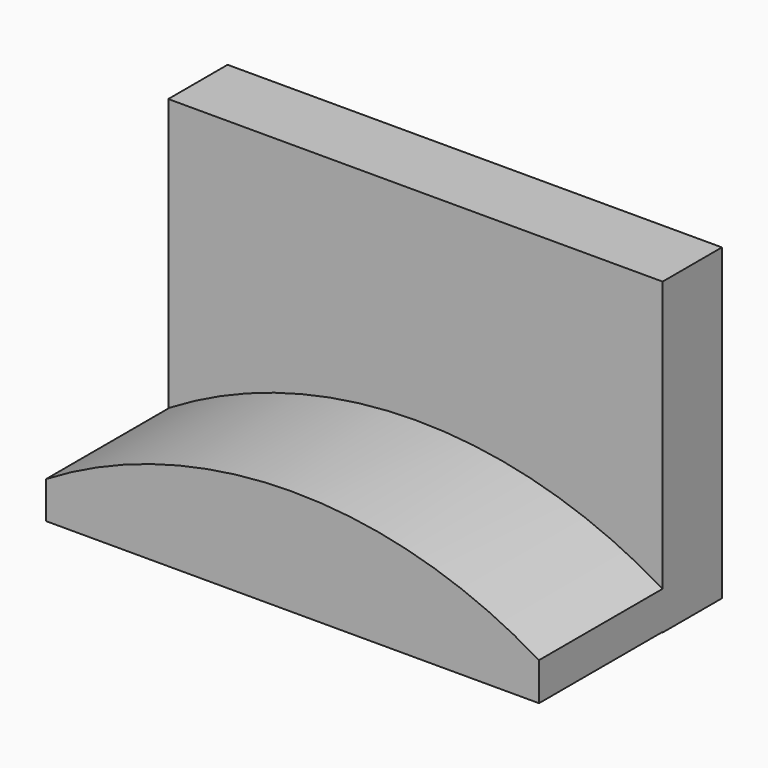
from build123d import *

# Parameters (mm, degrees)
F0_W     = 80
F0_H     = 50
F1_DEPTH = 6
F3_DEPTH = 25


with BuildPart() as f1:
    # F0 (on Front) → F1 (new body, symmetric)
    with BuildSketch(Plane.XZ):
        with Locations((40, 25)):
            Rectangle(F0_W, F0_H)
    extrude(amount=F1_DEPTH, both=True)

    # F2 (on face) → F3 (join)
    with BuildSketch(Plane.XZ.offset(6)):
        with BuildLine():
            ThreePointArc((80, 6.231307), (40.094205, 17.265459), (0.226448, 6.094657))
            Line((0.226448, 6.094657), (0.226448, 0.094657))
            Line((0.226448, 0.094657), (80, 0.094657))
            Line((80, 0.094657), (80, 6.231307))
        make_face()
    extrude(amount=F3_DEPTH)


solid = f1.part
